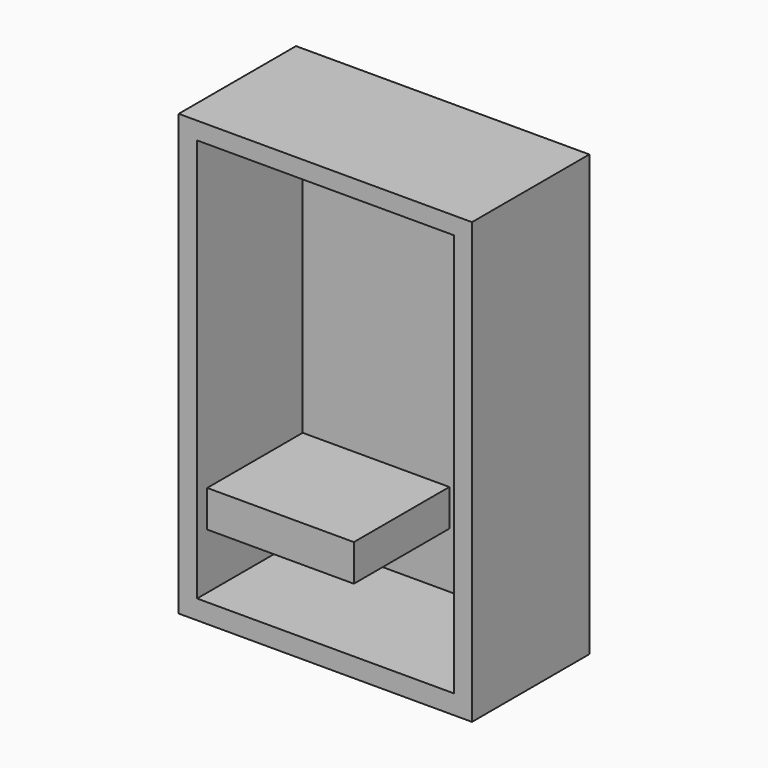
from build123d import *

# Parameters (mm, degrees)
F0_W     = 50.8
F0_H     = 76.2
F1_DEPTH = 25.4
F2_W     = 44.45
F2_H     = 69.85
F3_DEPTH = 22.86
F4_W     = 22.86
F4_H     = 6.35
F5_DEPTH = 25.4


with BuildPart() as f1:
    # F0 (on Front) → F1 (new body)
    with BuildSketch(Plane.XZ):
        with Locations((-25.4, 38.1)):
            Rectangle(F0_W, F0_H)
    extrude(amount=F1_DEPTH)

    # F2 (on face) → F3 (cut)
    with BuildSketch(Plane.XZ.offset(25.4)):
        with Locations((-25.384539, 38.258707)):
            Rectangle(F2_W, F2_H)
    extrude(amount=-F3_DEPTH, mode=Mode.SUBTRACT)

    # F4 (on face) → F5 (join)
    with BuildSketch(Plane.YZ.offset(-47.609539)):
        with Locations((-11.782601, 16.132223)):
            Rectangle(F4_W, F4_H)
    extrude(amount=F5_DEPTH)


solid = f1.part
